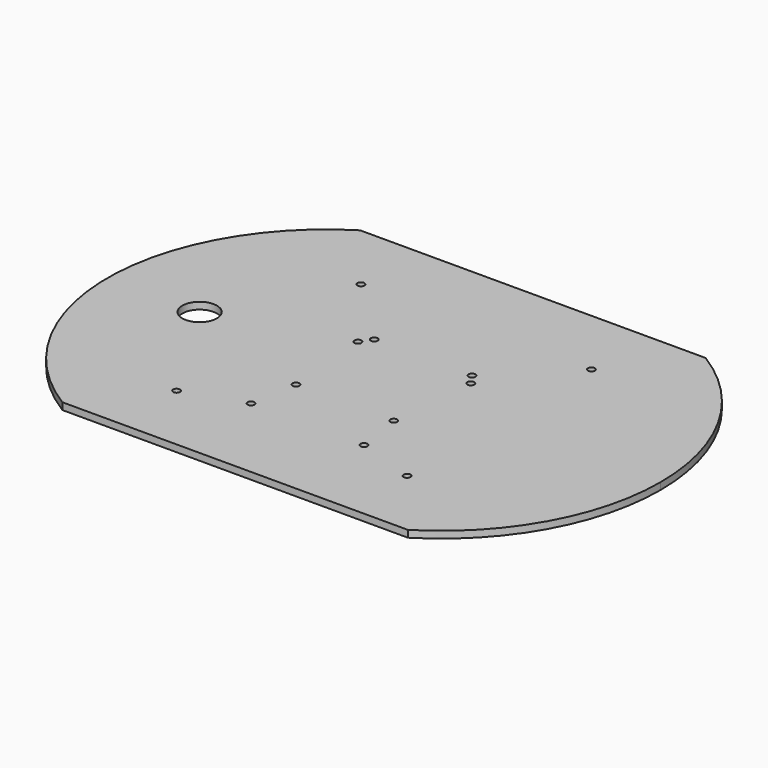
from build123d import *

# Parameters (mm, degrees)
F1_DEPTH = 3
F3_D     = 3
F5_D     = 3
F7_D     = 3
F9_D     = 15


with BuildPart() as f1:
    # F0 (on Top) → F1 (new body)
    with BuildSketch(Plane.XY):
        with BuildLine():
            Line((-25, 80.777472107), (-75, 80.777472107))
            ThreePointArc((-75, 80.777472107), (-120, 0), (-75, -80.777472107))
            Line((-75, -80.777472107), (-25, -80.777472107))
            ThreePointArc((-25, -80.777472107), (-70, 0), (-25, 80.777472107))
        make_face()
        with BuildLine():
            Line((25, 80.777472107), (-25, 80.777472107))
            ThreePointArc((-25, 80.777472107), (-70, 0), (-25, -80.777472107))
            Line((-25, -80.777472107), (25, -80.777472107))
            ThreePointArc((25, -80.777472107), (57.9909633635, -46.2331050223), (70, 0))
            ThreePointArc((70, 0), (57.9909633635, 46.2331050223), (25, 80.777472107))
        make_face()
        with BuildLine():
            Line((75, 80.777472107), (25, 80.777472107))
            ThreePointArc((25, 80.777472107), (57.9909633635, 46.2331050223), (70, 0))
            ThreePointArc((70, 0), (57.9909633635, -46.2331050223), (25, -80.777472107))
            Line((25, -80.777472107), (75, -80.777472107))
            ThreePointArc((75, -80.777472107), (107.9909633635, -46.2331050223), (120, 0))
            ThreePointArc((120, 0), (107.9909633635, 46.2331050223), (75, 80.777472107))
        make_face()
    extrude(amount=F1_DEPTH)

    # F3 (through all)
    with Locations(Plane.XY.offset(3)):
        with Locations((-50, 50), (50, 50), (50, -50), (-50, -50)):
            Hole(F3_D / 2)

    # F5 (through all)
    with Locations(Plane.XY.offset(3)):
        with Locations((-21.2132034356, 21.2132034356), (21.2132034356, 21.2132034356), (21.2132034356, -21.2132034356), (-21.2132034356, -21.2132034356)):
            Hole(F5_D / 2)

    # F7 (through all)
    with Locations(Plane(origin=(0, 0, 0), x_dir=(1, 0, 0), z_dir=(0, 0, -1))):
        with Locations((-24.5, 41.5), (24.5, 41.5), (24.5, -16.5), (-24.5, -16.5)):
            Hole(F7_D / 2)

    # F9 (through all)
    with Locations(Plane.XY.offset(3)):
        with Locations((-80, 0)):
            Hole(F9_D / 2)


solid = f1.part
